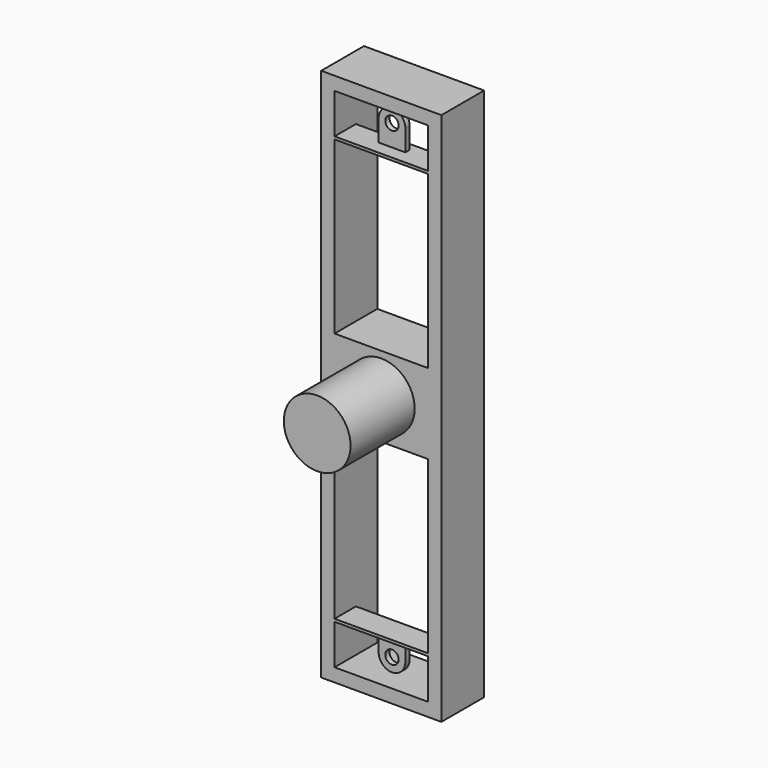
from build123d import *

# Parameters (mm, degrees)
F0_R      = 12.5
F1_DEPTH  = 40
F3_W      = 45
F3_H      = 200
F4_DEPTH  = 20
F5_W      = 35
F5_H      = 80
F6_DEPTH  = 25
F9_W      = 45
F9_H      = 10
F10_DEPTH = 1
F11_W     = 45
F11_H     = 10
F12_DEPTH = 1
F15_DEPTH = 2
F17_R     = 2.5
F18_DEPTH = 20.001


with BuildPart() as f1:
    # F0 (on Front) → F1 (new body)
    with BuildSketch(Plane.XZ):
        Circle(F0_R)
    extrude(amount=F1_DEPTH)

    # F3 (on offset) → F4 (join)
    with BuildSketch(Plane.XZ.offset(10)):
        Rectangle(F3_W, F3_H)
    extrude(amount=-F4_DEPTH)

    # F5 (on face) → F6 (cut)
    with BuildSketch(Plane(origin=(0, 10, 0), x_dir=(-1, 0, 0), z_dir=(0, 1, 0))):
        with Locations((0, 55)):
            Rectangle(F5_W, F5_H)
        with Locations((0, -55)):
            Rectangle(F5_W, F5_H)
    extrude(amount=-F6_DEPTH, mode=Mode.SUBTRACT)

    # F9 (on offset) → F10 (join)
    with BuildSketch(Plane.XY.offset(80)):
        with Locations((0, -5)):
            Rectangle(F9_W, F9_H)
    extrude(amount=-F10_DEPTH)

    # F11 (on offset) → F12 (join)
    with BuildSketch(Plane.XY.offset(-80)):
        with Locations((0, -5)):
            Rectangle(F11_W, F11_H)
    extrude(amount=F12_DEPTH)


with BuildPart() as f15:
    # F14 (on offset) → F15 (new body)
    with BuildSketch(Plane.XZ.offset(5)):
        with BuildLine():
            Line((-5, 88), (-5, 80))
            Line((-5, 80), (5, 80))
            Line((5, 80), (5, 88))
            ThreePointArc((5, 88), (0, 93), (-5, 88))
        make_face()
        with BuildLine():
            Line((5, -80), (-5, -80))
            Line((-5, -80), (-5, -88))
            ThreePointArc((-5, -88), (0, -93), (5, -88))
            Line((5, -88), (5, -80))
        make_face()
    extrude(amount=-F15_DEPTH)


with BuildPart() as f1_1:
    add(f1.part)

    # F16: union F15
    add(f15.part)

    # F17 (on face) → F18 (cut, through all)
    with BuildSketch(Plane.XZ.offset(10)):
        with Locations((0, -88)):
            Circle(F17_R)
        with Locations((0, 88)):
            Circle(F17_R)
    extrude(amount=-F18_DEPTH, mode=Mode.SUBTRACT)


solid = f1_1.part
